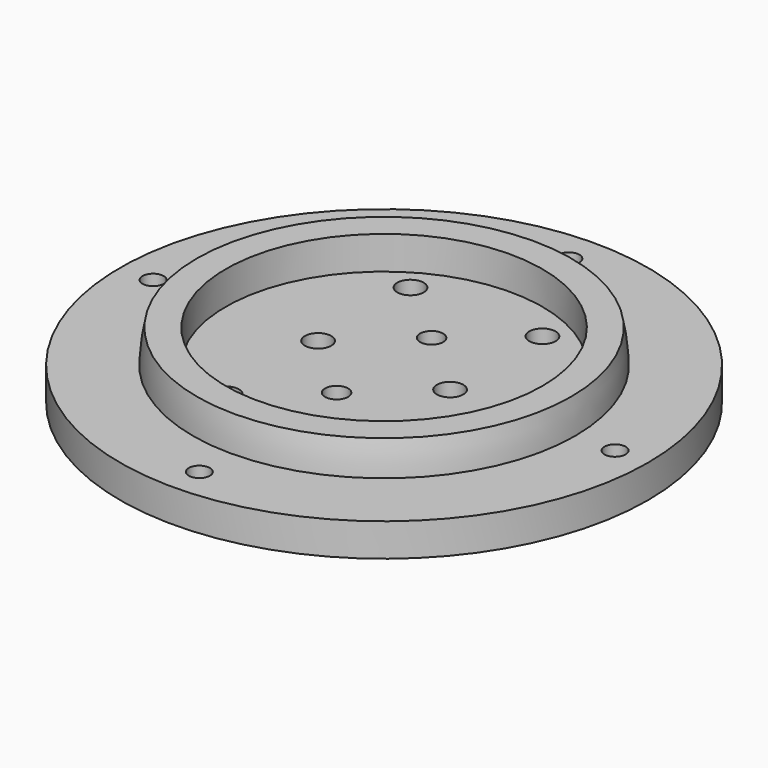
from build123d import *

# Parameters (mm, degrees)
CYLINDER061_R     = 1.6
CYLINDER061_DEPTH = 10
CYLINDER062_R     = 1.6
CYLINDER062_DEPTH = 10
CYLINDER063_R     = 1.6
CYLINDER063_DEPTH = 10
CYLINDER060_R     = 1.6
CYLINDER060_DEPTH = 10
CYLINDER057_R     = 2
CYLINDER057_DEPTH = 10
CYLINDER056_R     = 2
CYLINDER056_DEPTH = 10
CYLINDER059_R     = 1.75
CYLINDER059_DEPTH = 10
CYLINDER058_R     = 1.75
CYLINDER058_DEPTH = 10
CYLINDER050_R     = 2
CYLINDER050_DEPTH = 10
CYLINDER051_R     = 2
CYLINDER051_DEPTH = 10
CYLINDER052_R     = 2
CYLINDER052_DEPTH = 10
CYLINDER053_R     = 2
CYLINDER053_DEPTH = 10
CYLINDER055_R     = 24
CYLINDER055_DEPTH = 7
CYLINDER054_R     = 40
CYLINDER054_DEPTH = 5


with BuildPart() as obj1:
    # Cylinder061 → Cylinder061 (new body)
    with BuildSketch(Plane(origin=(40, 0, 65), x_dir=(1, 0, 0), z_dir=(0, 0, 1))):
        Circle(CYLINDER061_R)
    extrude(amount=CYLINDER061_DEPTH)


with BuildPart() as obj2:
    # Cylinder062 → Cylinder062 (new body)
    with BuildSketch(Plane(origin=(5, 35, 65), x_dir=(1, 0, 0), z_dir=(0, 0, 1))):
        Circle(CYLINDER062_R)
    extrude(amount=CYLINDER062_DEPTH)


with BuildPart() as obj3:
    # Cylinder063 → Cylinder063 (new body)
    with BuildSketch(Plane(origin=(5, -35, 65), x_dir=(1, 0, 0), z_dir=(0, 0, 1))):
        Circle(CYLINDER063_R)
    extrude(amount=CYLINDER063_DEPTH)


with BuildPart() as fusion029:
    # Cylinder060 → Cylinder060 (new body)
    with BuildSketch(Plane(origin=(-30, 0, 65), x_dir=(1, 0, 0), z_dir=(0, 0, 1))):
        Circle(CYLINDER060_R)
    extrude(amount=CYLINDER060_DEPTH)

    # Fusion029: union obj1, obj2, obj3
    add(obj1.part)
    add(obj2.part)
    add(obj3.part)


with BuildPart() as wirecut005:
    # Cylinder057 → Cylinder057 (new body)
    with BuildSketch(Plane(origin=(15, 0, 70), x_dir=(1, 0, 0), z_dir=(0, 0, 1))):
        Circle(CYLINDER057_R)
    extrude(amount=CYLINDER057_DEPTH)


with BuildPart() as wirecuts002:
    # Cylinder056 → Cylinder056 (new body)
    with BuildSketch(Plane(origin=(-5, 0, 70), x_dir=(1, 0, 0), z_dir=(0, 0, 1))):
        Circle(CYLINDER056_R)
    extrude(amount=CYLINDER056_DEPTH)

    # Fusion025: union wireCUt005
    add(wirecut005.part)


with BuildPart() as m3cuts005:
    # Cylinder059 → Cylinder059 (new body)
    with BuildSketch(Plane(origin=(5, 9, 70), x_dir=(1, 0, 0), z_dir=(0, 0, 1))):
        Circle(CYLINDER059_R)
    extrude(amount=CYLINDER059_DEPTH)


with BuildPart() as m3cute002:
    # Cylinder058 → Cylinder058 (new body)
    with BuildSketch(Plane(origin=(5, -9, 70), x_dir=(1, 0, 0), z_dir=(0, 0, 1))):
        Circle(CYLINDER058_R)
    extrude(amount=CYLINDER058_DEPTH)

    # Fusion026: union m3Cuts005
    add(m3cuts005.part)


with BuildPart() as cylinder050:
    # Cylinder050 → Cylinder050 (new body)
    with BuildSketch(Plane(origin=(0, -21, 0), x_dir=(1, 0, 0), z_dir=(0, 0, 1))):
        Circle(CYLINDER050_R)
    extrude(amount=CYLINDER050_DEPTH)


with BuildPart() as m3heatsetcuts006:
    # Cylinder051 → Cylinder051 (new body)
    with BuildSketch(Plane(origin=(20, -21, 0), x_dir=(1, 0, 0), z_dir=(0, 0, 1))):
        Circle(CYLINDER051_R)
    extrude(amount=CYLINDER051_DEPTH)

    # Fusion022: union Cylinder050
    add(cylinder050.part)


with BuildPart() as m3heatsetcuts006_1:
    # Fusion022 placement: moved
    add(m3heatsetcuts006.part.moved(Location((-5, 38.5, 70))))


with BuildPart() as cylinder052:
    # Cylinder052 → Cylinder052 (new body)
    with BuildSketch(Plane(origin=(0, -21, 0), x_dir=(1, 0, 0), z_dir=(0, 0, 1))):
        Circle(CYLINDER052_R)
    extrude(amount=CYLINDER052_DEPTH)


with BuildPart() as basecuts002:
    # Cylinder053 → Cylinder053 (new body)
    with BuildSketch(Plane(origin=(20, -21, 0), x_dir=(1, 0, 0), z_dir=(0, 0, 1))):
        Circle(CYLINDER053_R)
    extrude(amount=CYLINDER053_DEPTH)

    # Fusion023: union Cylinder052
    add(cylinder052.part)


with BuildPart() as basecuts002_1:
    # Fusion023 placement: moved
    add(basecuts002.part.moved(Location((-5, 3.5, 70))))

    # Fusion024: union m3HeatSetCuts006
    add(m3heatsetcuts006_1.part)

    # Fusion027: union wireCuts002, m3Cute002
    add(wirecuts002.part)
    add(m3cute002.part)


with BuildPart() as basecut002:
    # Cylinder055 → Cylinder055 (new body)
    with BuildSketch(Plane(origin=(5, 0, 74), x_dir=(1, 0, 0), z_dir=(0, 0, 1))):
        Circle(CYLINDER055_R)
    extrude(amount=CYLINDER055_DEPTH)


with BuildPart() as cut009:
    # Sphere003 → Sphere003 (revolve)
    with BuildSketch(Plane(origin=(5, 0, 74), x_dir=(1, 0, 0), z_dir=(0, -1, 0))):
        with BuildLine():
            ThreePointArc((29, 0), (28.841135, 3.031325), (28.36628, 6.029439))
            Line((28.36628, 6.029439), (0, 6.029439))
            Line((0, 6.029439), (0, 0))
            Line((0, 0), (29, 0))
        make_face()
    revolve(axis=Axis((5, 0, 74), (0, 0, 1)))

    # Cut009: cut baseCut002
    add(basecut002.part, mode=Mode.SUBTRACT)


with BuildPart() as lightmodule002:
    # Cylinder054 → Cylinder054 (new body)
    with BuildSketch(Plane(origin=(5, 0, 70), x_dir=(1, 0, 0), z_dir=(0, 0, 1))):
        Circle(CYLINDER054_R)
    extrude(amount=CYLINDER054_DEPTH)

    # Fusion028: union Cut009
    add(cut009.part)

    # Cut010: cut baseCUts002
    add(basecuts002_1.part, mode=Mode.SUBTRACT)

    # Cut011: cut Fusion029
    add(fusion029.part, mode=Mode.SUBTRACT)


with BuildPart() as lightmodule002_1:
    # Cut011 placement: moved
    add(lightmodule002.part.moved(Location((-63, -150, 0))))


solid = lightmodule002_1.part
